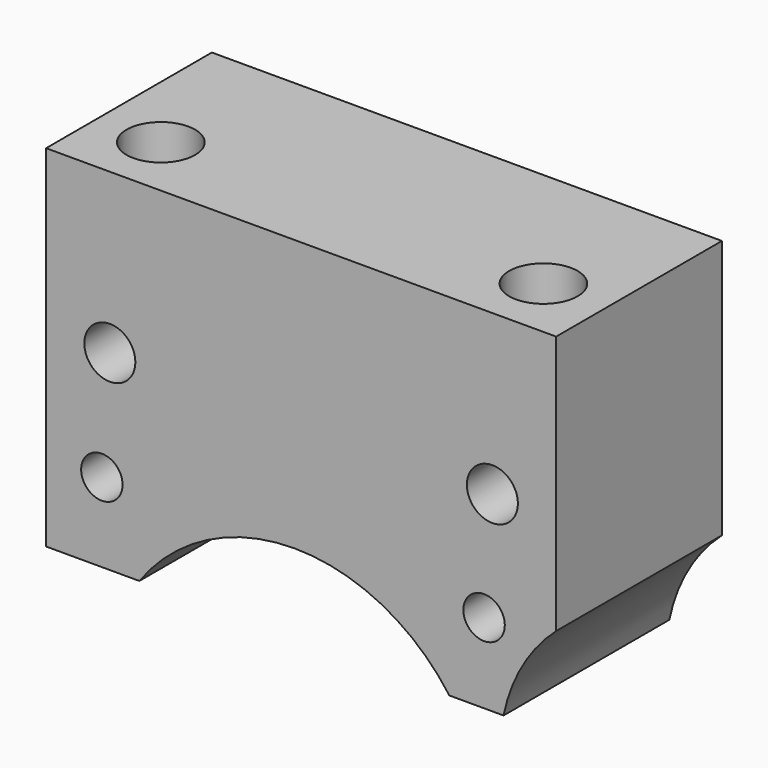
from build123d import *

# Parameters (mm, degrees)
BOX009_W           = 32
BOX009_H           = 13
BOX009_DEPTH       = 22
SKETCH066_R        = 12
SKETCH066_R_2      = 1.3
POCKET042006_DEPTH = 8
SKETCH067_R        = 2.15
POCKET042007_DEPTH = 8
SKETCH068_R        = 1.6
POCKET042008_DEPTH = 13.001
SKETCH069_R        = 10.5
POCKET042009_DEPTH = 13.001


with BuildPart() as part:
    # Box009 → Box009 (new body)
    with BuildSketch(Plane(origin=(-24.5, -25, -11), x_dir=(1, 0, 0), z_dir=(0, 0, 1))):
        with Locations((16, 6.5)):
            Rectangle(BOX009_W, BOX009_H)
    extrude(amount=BOX009_DEPTH)

    # Sketch066 (on Face3 of Box009) → Pocket042006 (cut)
    with BuildSketch(Plane(origin=(-24.5, -25, -11), x_dir=(1, 0, 0), z_dir=(0, -1, 0))):
        with Locations((15.576077, -7.031956)):
            Circle(SKETCH066_R)
        with Locations((3.49904, 4.966864)):
            Circle(SKETCH066_R_2)
        with Locations((27.478965, 5.011155)):
            Circle(SKETCH066_R_2)
    extrude(amount=-POCKET042006_DEPTH, mode=Mode.SUBTRACT)

    # Sketch067 (on Face3 of Pocket042006) → Pocket042007 (cut)
    with BuildSketch(Plane(origin=(-24.5, -25, 11), x_dir=(1, 0, 0), z_dir=(0, 0, 1))):
        with Locations((4, 4)):
            Circle(SKETCH067_R)
        with Locations((28, 4)):
            Circle(SKETCH067_R)
    extrude(amount=-POCKET042007_DEPTH, mode=Mode.SUBTRACT)

    # Sketch068 (on Face2 of Pocket042007) → Pocket042008 (cut, through all)
    with BuildSketch(Plane(origin=(-24.5, -25, -11), x_dir=(1, 0, 0), z_dir=(0, -1, 0))):
        with Locations((4, 12)):
            Circle(SKETCH068_R)
        with Locations((28, 12)):
            Circle(SKETCH068_R)
    extrude(amount=-POCKET042008_DEPTH, mode=Mode.SUBTRACT)

    # Sketch069 (on Face2 of Pocket042008) → Pocket042009 (cut, through all)
    with BuildSketch(Plane(origin=(-24.5, -25, -11), x_dir=(1, 0, 0), z_dir=(0, -1, 0))):
        with Locations((38.988731, -2.097178)):
            Circle(SKETCH069_R)
    extrude(amount=-POCKET042009_DEPTH, mode=Mode.SUBTRACT)


solid = part.part
